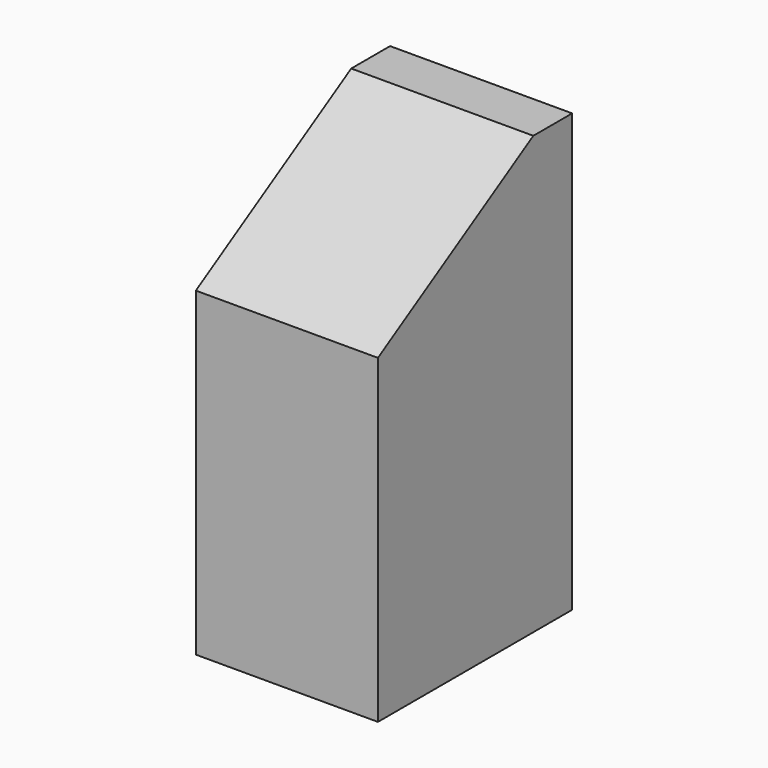
from build123d import *

# Parameters (mm, degrees)
SKETCH032_W     = 16
SKETCH032_H     = 16
PAD017_DEPTH    = 28.8
POCKET015_DEPTH = 16
SKETCH115_W     = 2
SKETCH115_H     = 16
POCKET031_DEPTH = 30
PAD134_DEPTH    = 12


with BuildPart() as part:
    # Sketch032 (on Face52 of Binder013) → Pad017 (new body)
    with BuildSketch(Plane.XY.offset(-28.8)):
        with Locations((96, -8)):
            Rectangle(SKETCH032_W, SKETCH032_H)
    extrude(amount=PAD017_DEPTH)

    # Sketch033 (on Face2 of Pad017) → Pocket015 (cut)
    with BuildSketch(Plane.YZ.offset(104)):
        Polygon((-16, 0), (-16, -9.6), (0, 0), align=None)
    extrude(amount=-POCKET015_DEPTH, mode=Mode.SUBTRACT)

    # Sketch115 (on Face2 of Pocket015) → Pocket031 (cut)
    with BuildSketch(Plane(origin=(0, 0, -28.8), x_dir=(1, 0, 0), z_dir=(0, 0, -1))):
        with Locations((103, 8)):
            Rectangle(SKETCH115_W, SKETCH115_H)
        with Locations((89, 8)):
            Rectangle(SKETCH115_W, SKETCH115_H)
    extrude(amount=-POCKET031_DEPTH, mode=Mode.SUBTRACT)

    # Sketch134 (on Face3 of Pocket031) → Pad134 (join)
    with BuildSketch(Plane.YZ.offset(102)):
        Polygon((0, 0), (-3.2, 0), (-16, -7.68), (-16, -10.88), (-3.2, -3.2), (0, -3.2), align=None)
    extrude(amount=-PAD134_DEPTH)


solid = part.part
